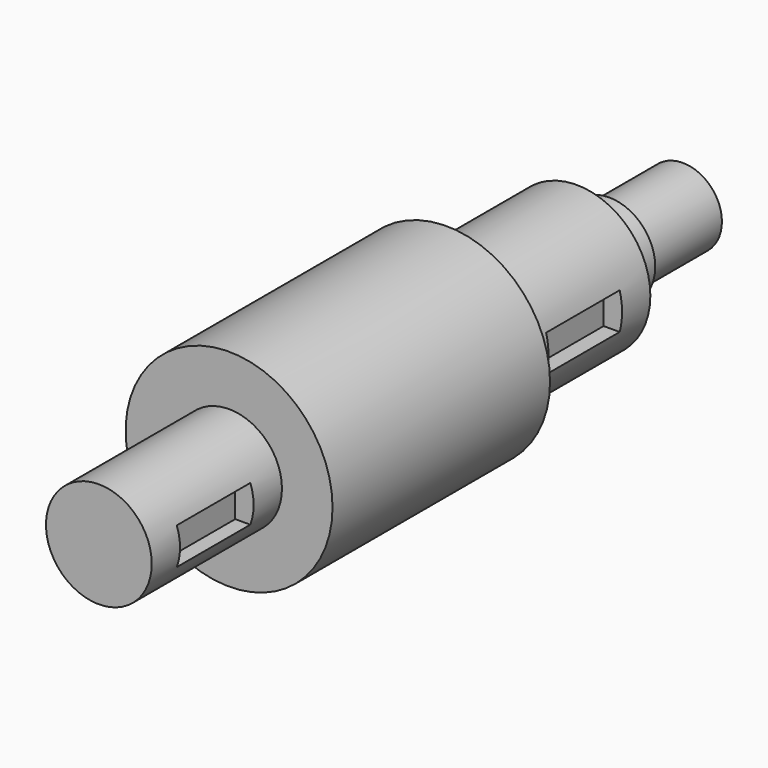
from build123d import *

# Parameters (mm, degrees)
F0_R      = 8.5
F1_DEPTH  = 20
F2_R      = 10
F3_DEPTH  = 8.83
F4_R      = 16
F5_DEPTH  = 35.4
F6_R      = 22.5
F7_DEPTH  = 59.13
F8_R      = 11.5
F9_DEPTH  = 35.4
F12_W     = 20
F12_H     = 4
F13_DEPTH = 4
F15_W     = 20
F15_H     = 4
F16_DEPTH = 4


with BuildPart() as f1:
    # F0 (on Front) → F1 (new body)
    with BuildSketch(Plane.XZ):
        Circle(F0_R)
    extrude(amount=F1_DEPTH)

    # F2 (on face) → F3 (join)
    with BuildSketch(Plane.XZ.offset(20)):
        Circle(F2_R)
    extrude(amount=F3_DEPTH)

    # F4 (on face) → F5 (join)
    with BuildSketch(Plane.XZ.offset(28.83)):
        Circle(F4_R)
    extrude(amount=F5_DEPTH)

    # F6 (on face) → F7 (join)
    with BuildSketch(Plane.XZ.offset(64.23)):
        Circle(F6_R)
    extrude(amount=F7_DEPTH)

    # F8 (on face) → F9 (join)
    with BuildSketch(Plane.XZ.offset(123.36)):
        Circle(F8_R)
    extrude(amount=F9_DEPTH)

    # F12 (on offset) → F13 (cut)
    with BuildSketch(Plane.YZ.offset(11.5)):
        with Locations((-141.06, 2)):
            Rectangle(F12_W, F12_H)
        with Locations((-141.06, -2)):
            Rectangle(F12_W, F12_H)
    extrude(amount=-F13_DEPTH, mode=Mode.SUBTRACT)

    # F15 (on offset) → F16 (cut)
    with BuildSketch(Plane.YZ.offset(16)):
        with Locations((-46.53, -2)):
            Rectangle(F15_W, F15_H)
        with Locations((-46.53, 2)):
            Rectangle(F15_W, F15_H)
    extrude(amount=-F16_DEPTH, mode=Mode.SUBTRACT)


solid = f1.part
